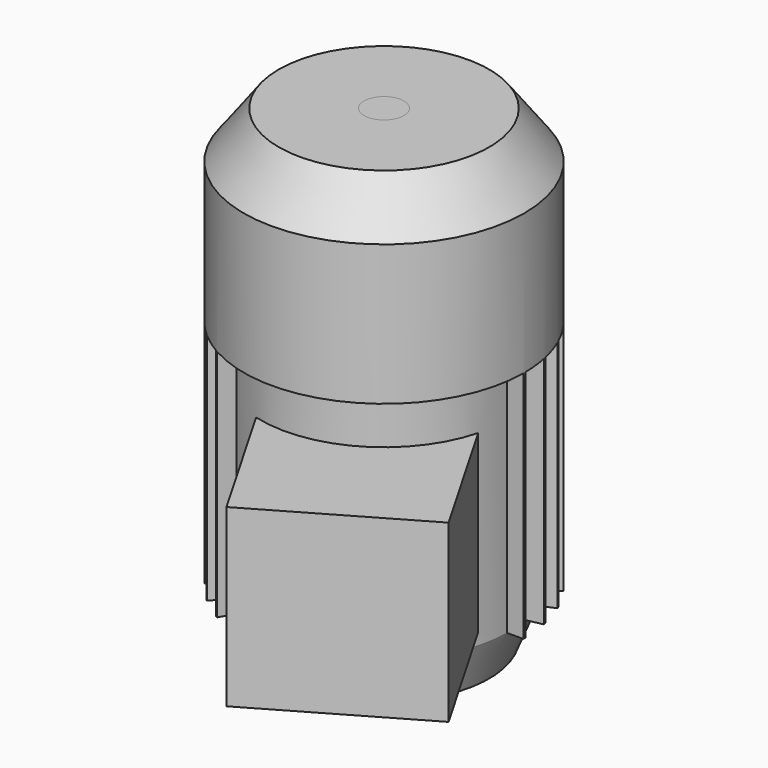
from build123d import *

# Parameters (mm, degrees)
F0_W           = 44.5
F0_H           = 100
F0_W_2         = 8.5
F0_H_2         = 80
F0_W_3         = 5.5
F0_H_3         = 23
F5_DEPTH       = 100
F6_R           = 2.1
F7_DEPTH       = 6
F10_DEPTH      = 44.5
F10_DEPTH_BACK = 50
F13_DEPTH      = 2.5
F6_R_2         = 30
F6_R_3         = 26
F14_DEPTH      = 2
F15_DEPTH      = 1.5
F15_DEPTH_BACK = 2.5
F16_R          = 2.1
F17_DEPTH      = 20


with BuildPart() as f1:
    # F0 (on Front) → F1 (revolve)
    with BuildSketch(Plane.XZ):
        Polygon((-8.5, 0), (-8.5, 20), (-53, 20), (-45, 0), align=None)
        Polygon((-8.5, 120), (-8.5, 200), (-45, 200), (-60, 180), (-60, 120), (-53, 120), align=None)
        with Locations((-30.75, 70)):
            Rectangle(F0_W, F0_H)
        Polygon((-8.5, 0), (-8.5, 20), (-53, 20), (-45, 0), align=None)
    revolve(axis=Axis((0, 0, 100), (0, 0, -1)))

    # F4 (on line) → F5 (join)
    with BuildSketch(Plane(origin=(0, 0, 120), x_dir=(1, 0, 0), z_dir=(0, 0, -1))):
        with BuildLine():
            ThreePointArc((-51.7355599903, 11.507903045), (-51.8418228389, 11.0193196133), (-51.9434716811, 10.5297554443))
            Line((-51.9434716811, 10.5297554443), (-51.8395158357, 11.0188292447))
            Line((-51.8395158357, 11.0188292447), (-51.7355599903, 11.507903045))
        make_face()
        with BuildLine():
            Line((-58.7928118894, 11.9856276487), (-51.9434716811, 10.5297554443))
            ThreePointArc((-51.9434716811, 10.5297554443), (-51.8418228389, 11.0193196133), (-51.7355599903, 11.507903045))
            Line((-51.7355599903, 11.507903045), (-58.5849001986, 12.9637752494))
            Line((-58.5849001986, 12.9637752494), (-58.688856044, 12.4747014491))
            Line((-58.688856044, 12.4747014491), (-58.7928118894, 11.9856276487))
        make_face()
        with BuildLine():
            Line((-48.8349122886, 34.8626066404), (-43.1698852266, 30.7467235575))
            ThreePointArc((-43.1698852266, 30.7467235575), (-42.8779007019, 31.1526183715), (-42.5820999743, 31.5557405519))
            Line((-42.5820999743, 31.5557405519), (-48.2471270364, 35.6716236347))
            Line((-48.2471270364, 35.6716236347), (-48.5410196625, 35.2671151375))
            Line((-48.5410196625, 35.2671151375), (-48.8349122886, 34.8626066404))
        make_face()
        with BuildLine():
            Line((-40.5194087943, 44.2541242255), (-35.8339163764, 39.0503577081))
            ThreePointArc((-35.8339163764, 39.0503577081), (-35.463922137, 39.3866757503), (-35.0907715509, 39.7194883144))
            Line((-35.0907715509, 39.7194883144), (-39.7762639688, 44.9232548318))
            Line((-39.7762639688, 44.9232548318), (-40.1478363815, 44.5886895286))
            Line((-40.1478363815, 44.5886895286), (-40.5194087943, 44.2541242255))
        make_face()
        with BuildLine():
            Line((-30.4330127019, 51.7115242271), (-26.9318334304, 45.6473038424))
            ThreePointArc((-26.9318334304, 45.6473038424), (-26.5, 45.8993464006), (-26.0658080266, 46.1473038424))
            Line((-26.0658080266, 46.1473038424), (-29.5669872981, 52.2115242271))
            Line((-29.5669872981, 52.2115242271), (-30, 51.9615242271))
            Line((-30, 51.9615242271), (-30.4330127019, 51.7115242271))
        make_face()
        with BuildLine():
            ThreePointArc((-48.2123862972, 22.012855506), (-48.4179092551, 21.557042083), (-48.6191229403, 21.0993100483))
            Line((-48.6191229403, 21.0993100483), (-48.4157546188, 21.5560827771))
            Line((-48.4157546188, 21.5560827771), (-48.2123862972, 22.012855506))
        make_face()
        with BuildLine():
            ThreePointArc((-42.5820999743, 31.5557405519), (-42.8779007019, 31.1526183715), (-43.1698852266, 30.7467235575))
            Line((-43.1698852266, 30.7467235575), (-42.8759926005, 31.1512320547))
            Line((-42.8759926005, 31.1512320547), (-42.5820999743, 31.5557405519))
        make_face()
        with BuildLine():
            ThreePointArc((-35.0907715509, 39.7194883144), (-35.463922137, 39.3866757503), (-35.8339163764, 39.0503577081))
            Line((-35.8339163764, 39.0503577081), (-35.4623439637, 39.3849230112))
            Line((-35.4623439637, 39.3849230112), (-35.0907715509, 39.7194883144))
        make_face()
        with BuildLine():
            ThreePointArc((-26.0658080266, 46.1473038424), (-26.5, 45.8993464006), (-26.9318334304, 45.6473038424))
            Line((-26.9318334304, 45.6473038424), (-26.4988207285, 45.8973038424))
            Line((-26.4988207285, 45.8973038424), (-26.0658080266, 46.1473038424))
        make_face()
        with BuildLine():
            Line((-55.0160957801, 23.9474258557), (-48.6191229403, 21.0993100483))
            ThreePointArc((-48.6191229403, 21.0993100483), (-48.4179092551, 21.557042083), (-48.2123862972, 22.012855506))
            Line((-48.2123862972, 22.012855506), (-54.609359137, 24.8609713134))
            Line((-54.609359137, 24.8609713134), (-54.8127274586, 24.4041985845))
            Line((-54.8127274586, 24.4041985845), (-55.0160957801, 23.9474258557))
        make_face()
        with BuildLine():
            Line((-60, 0), (-53, 0))
            ThreePointArc((-53, 0), (-52.999410361, 0.2500027813), (-52.997641457, 0.5))
            Line((-52.997641457, 0.5), (-60, 0.5))
            Line((-60, 0.5), (-60, 0))
        make_face()
        with BuildLine():
            ThreePointArc((35.8339163764, -39.0503577081), (35.463922137, -39.3866757503), (35.0907715509, -39.7194883144))
            Line((35.0907715509, -39.7194883144), (39.7762639688, -44.9232548318))
            Line((39.7762639688, -44.9232548318), (40.1478363815, -44.5886895286))
            Line((40.1478363815, -44.5886895286), (40.5194087943, -44.2541242255))
            Line((40.5194087943, -44.2541242255), (35.8339163764, -39.0503577081))
        make_face()
        with BuildLine():
            ThreePointArc((26.5, -45.8993464006), (26.2831964208, -46.0238371489), (26.0658080266, -46.1473038424))
            Line((26.0658080266, -46.1473038424), (29.5669872981, -52.2115242271))
            Line((29.5669872981, -52.2115242271), (30, -51.9615242271))
            Line((30, -51.9615242271), (30.4330127019, -51.7115242271))
            Line((30.4330127019, -51.7115242271), (26.9318334304, -45.6473038424))
            ThreePointArc((26.9318334304, -45.6473038424), (26.7162139401, -45.7738343675), (26.5, -45.8993464006))
        make_face()
        with BuildLine():
            ThreePointArc((43.1698852266, -30.7467235575), (42.8779007019, -31.1526183715), (42.5820999743, -31.5557405519))
            Line((42.5820999743, -31.5557405519), (48.2471270364, -35.6716236347))
            Line((48.2471270364, -35.6716236347), (48.5410196625, -35.2671151375))
            Line((48.5410196625, -35.2671151375), (48.8349122886, -34.8626066404))
            Line((48.8349122886, -34.8626066404), (43.1698852266, -30.7467235575))
        make_face()
        with BuildLine():
            ThreePointArc((48.6191229403, -21.0993100483), (48.4179092551, -21.557042083), (48.2123862972, -22.012855506))
            Line((48.2123862972, -22.012855506), (54.609359137, -24.8609713134))
            Line((54.609359137, -24.8609713134), (54.8127274586, -24.4041985845))
            Line((54.8127274586, -24.4041985845), (55.0160957801, -23.9474258557))
            Line((55.0160957801, -23.9474258557), (48.6191229403, -21.0993100483))
        make_face()
        with BuildLine():
            ThreePointArc((51.9434716811, -10.5297554443), (51.8418228389, -11.0193196133), (51.7355599903, -11.507903045))
            Line((51.7355599903, -11.507903045), (58.5849001986, -12.9637752494))
            Line((58.5849001986, -12.9637752494), (58.688856044, -12.4747014491))
            Line((58.688856044, -12.4747014491), (58.7928118894, -11.9856276487))
            Line((58.7928118894, -11.9856276487), (51.9434716811, -10.5297554443))
        make_face()
        with BuildLine():
            Line((60, 0.5), (52.997641457, 0.5))
            ThreePointArc((52.997641457, 0.5), (52.999410361, 0.2500027813), (53, 0))
            ThreePointArc((53, 0), (52.999410361, -0.2500027813), (52.997641457, -0.5))
            Line((52.997641457, -0.5), (60, -0.5))
            Line((60, -0.5), (60, 0))
            Line((60, 0), (60, 0.5))
        make_face()
    extrude(amount=F5_DEPTH)

    # F6 (on Top) → F7 (cut)
    with BuildSketch(Plane.XY):
        with Locations((36.2222184858, -9.7057141913)):
            Circle(F6_R)
        with Locations((9.7057141913, 36.2222184858)):
            Circle(F6_R)
        with Locations((-9.7057141913, -36.2222184858)):
            Circle(F6_R)
        with Locations((-36.2222184858, 9.7057141913)):
            Circle(F6_R)
        with Locations((36.2222184858, -9.7057141913)):
            Circle(F6_R)
        with Locations((-9.7057141913, -36.2222184858)):
            Circle(F6_R)
        with Locations((-36.2222184858, 9.7057141913)):
            Circle(F6_R)
        with Locations((9.7057141913, 36.2222184858)):
            Circle(F6_R)
    extrude(amount=F7_DEPTH, mode=Mode.SUBTRACT)

    # F9 (on line) → F10 (join, two sides)
    with BuildSketch(Plane(origin=(26.5, -45.8993464006, 0), x_dir=(0.8660254038, 0.5, 0), z_dir=(0.5, -0.8660254038, 0))) as f10_sk:
        Polygon((37.5, 25), (37.5, 100), (0, 100), (-37.5, 100), (-37.5, 25), align=None)
    extrude(amount=-F10_DEPTH)
    extrude(f10_sk.sketch, amount=F10_DEPTH_BACK)

    # F6 (on Top) → F14 (join)
    with BuildSketch(Plane.XY):
        Circle(F6_R_2)
        Circle(F6_R_3, mode=Mode.SUBTRACT)
    extrude(amount=-F14_DEPTH)


with BuildPart() as f2:
    # F0 (on Front) → F2 (revolve)
    with BuildSketch(Plane.XZ):
        with Locations((-4.25, 160)):
            Rectangle(F0_W_2, F0_H_2)
        with Locations((-4.25, 70)):
            Rectangle(F0_W_2, F0_H)
        Polygon((0, 0), (0, 20), (-8.5, 20), (-8.5, 0), (-5.5, 0), align=None)
        with Locations((-2.75, -11.5)):
            Rectangle(F0_W_3, F0_H_3)
    revolve(axis=Axis((0, 0, 100), (0, 0, -1)))

    # F12 (on offset) → F13 (cut)
    with BuildSketch(Plane.XZ.offset(-5.5)):
        with BuildLine():
            Line((2, -19), (2, -5))
            ThreePointArc((2, -5), (0, -7), (-2, -5))
            Line((-2, -5), (-2, -19))
            ThreePointArc((-2, -19), (0, -17), (2, -19))
        make_face()
        with BuildLine():
            ThreePointArc((-2, -5), (0, -7), (2, -5))
            ThreePointArc((2, -5), (0, -3), (-2, -5))
        make_face()
        with BuildLine():
            ThreePointArc((-2, -19), (0, -21), (2, -19))
            ThreePointArc((2, -19), (0, -17), (-2, -19))
        make_face()
    extrude(amount=F13_DEPTH, mode=Mode.SUBTRACT)

    # F16 (on face) → F17 (cut)
    with BuildSketch(Plane(origin=(0, 0, -23), x_dir=(1, 0, 0), z_dir=(0, 0, -1))):
        Circle(F16_R)
    extrude(amount=-F17_DEPTH, mode=Mode.SUBTRACT)


with BuildPart() as f15:
    # F12 (on offset) → F15 (new body, two sides)
    with BuildSketch(Plane.XZ.offset(-5.5)) as f15_sk:
        with BuildLine():
            Line((2, -19), (2, -5))
            ThreePointArc((2, -5), (0, -7), (-2, -5))
            Line((-2, -5), (-2, -19))
            ThreePointArc((-2, -19), (0, -17), (2, -19))
        make_face()
        with BuildLine():
            ThreePointArc((-2, -5), (0, -7), (2, -5))
            ThreePointArc((2, -5), (0, -3), (-2, -5))
        make_face()
        with BuildLine():
            ThreePointArc((-2, -19), (0, -21), (2, -19))
            ThreePointArc((2, -19), (0, -17), (-2, -19))
        make_face()
    extrude(amount=-F15_DEPTH)
    extrude(f15_sk.sketch, amount=F15_DEPTH_BACK)


solid = Compound([f1.part, f2.part, f15.part])
